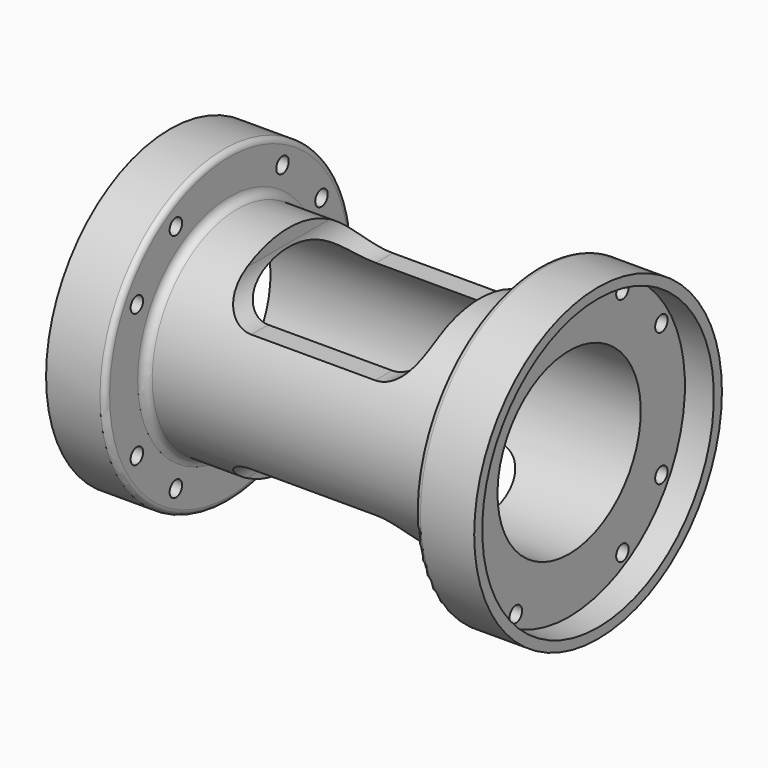
from build123d import *

# Parameters (mm, degrees)
F3_DEPTH = 21.844
F5_D     = 2.9464


with BuildPart() as f1:
    # F0 (on Front) → F1 (revolve)
    with BuildSketch(Plane.XZ):
        with BuildLine():
            Line((-110.8834211646, -27.31135), (-116.3444211646, -27.31135))
            Line((-116.3444211646, -27.31135), (-116.3444211646, -29.21))
            Line((-116.3444211646, -29.21), (-106.1844211646, -29.21))
            ThreePointArc((-106.1844211646, -29.21), (-105.466000675, -28.9124204897), (-105.1684211646, -28.194))
            Line((-105.1684211646, -28.194), (-105.1684211646, -21.59))
            ThreePointArc((-105.1684211646, -21.59), (-104.7220518992, -20.5123692655), (-103.6444211646, -20.066))
            Line((-103.6444211646, -20.066), (-48.2724211646, -20.066))
            ThreePointArc((-48.2724211646, -20.066), (-47.1947904301, -20.5123692655), (-46.7484211646, -21.59))
            Line((-46.7484211646, -21.59), (-46.7484211646, -28.194))
            ThreePointArc((-46.7484211646, -28.194), (-46.4508416543, -28.9124204897), (-45.7324211646, -29.21))
            Line((-45.7324211646, -29.21), (-35.5724211646, -29.21))
            Line((-35.5724211646, -29.21), (-35.5724211646, -27.31135))
            Line((-35.5724211646, -27.31135), (-41.0334211646, -27.31135))
            Line((-41.0334211646, -27.31135), (-41.0334211646, -16.891))
            Line((-41.0334211646, -16.891), (-110.8834211646, -16.891))
            Line((-110.8834211646, -16.891), (-110.8834211646, -27.31135))
        make_face()
    revolve(axis=Axis((-4.8594327902, 0, 0), (1, 0, 0)))

    # F2 (on Front) → F3 (cut, symmetric)
    with BuildSketch(Plane.XZ):
        with BuildLine():
            Line((-57.9244211646, 20.066), (-93.9924211646, 20.066))
            Line((-93.9924211646, 20.066), (-93.9924211646, 17.526))
            ThreePointArc((-93.9924211646, 17.526), (-92.1325492252, 13.0358719395), (-87.6424211646, 11.176))
            Line((-87.6424211646, 11.176), (-64.2744211646, 11.176))
            ThreePointArc((-64.2744211646, 11.176), (-59.7842931041, 13.0358719395), (-57.9244211646, 17.526))
            Line((-57.9244211646, 17.526), (-57.9244211646, 20.066))
        make_face()
        with BuildLine():
            Line((-93.9924211646, -20.066), (-57.9244211646, -20.066))
            Line((-57.9244211646, -20.066), (-57.9244211646, -17.526))
            ThreePointArc((-57.9244211646, -17.526), (-59.7842931041, -13.0358719395), (-64.2744211646, -11.176))
            Line((-64.2744211646, -11.176), (-87.6424211646, -11.176))
            ThreePointArc((-87.6424211646, -11.176), (-92.1325492252, -13.0358719395), (-93.9924211646, -17.526))
            Line((-93.9924211646, -17.526), (-93.9924211646, -20.066))
        make_face()
    extrude(amount=F3_DEPTH, both=True, mode=Mode.SUBTRACT)

    # F5 (through all)
    with Locations(Plane(origin=(-110.8834211646, 0, 0), x_dir=(0, -1, 0), z_dir=(-1, 0, 0))):
        with Locations((12.573, 21.7678), (21.7678, 12.573), (21.7678, -12.573), (12.573, -21.7678), (-12.573, -21.7678), (-21.7678, -12.573), (-21.7678, 12.573), (-12.573, 21.7678)):
            Hole(F5_D / 2)


solid = f1.part
